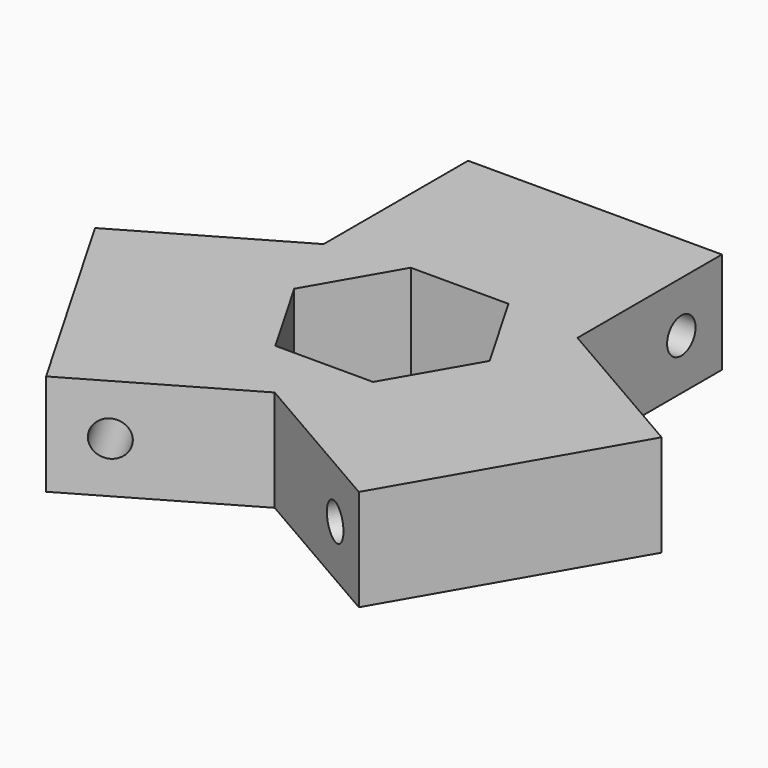
from build123d import *

# Parameters (mm, degrees)
F0_W     = 15
F0_H     = 15
F1_DEPTH = 6
F2_R     = 1.05
F3_DEPTH = 15
F5_COUNT = 3
F7_DEPTH = 6


with BuildPart() as f1:
    # F0 (on Top) → F1 (new body)
    with BuildSketch(Plane.XY):
        with Locations((0, 7.5)):
            Rectangle(F0_W, F0_H)
    extrude(amount=F1_DEPTH)

    # F2 (on face) → F3 (cut, through all)
    with BuildSketch(Plane(origin=(-7.5, 0, 0), x_dir=(0, -1, 0), z_dir=(-1, 0, 0))):
        with Locations((-12, 3)):
            Circle(F2_R)
    extrude(amount=-F3_DEPTH, mode=Mode.SUBTRACT)

    # F5: F1 ×3 about axis
    f5_axis = Axis((0, 0, -1.369192), (0, 0, -1))


with BuildPart() as f1_1:
    add(f1.part)
    for i in range(1, F5_COUNT):
        add(f1.part.rotate(f5_axis, i * 360 / F5_COUNT))

    # F6 (on Top) → F7 (cut, through all)
    with BuildSketch(Plane.XY):
        Polygon((2.886751, 5), (-2.886751, 5), (-5.773503, 0), (-2.886751, -5), (2.886751, -5), (5.773503, 0), align=None)
    extrude(amount=F7_DEPTH, mode=Mode.SUBTRACT)


solid = f1_1.part
